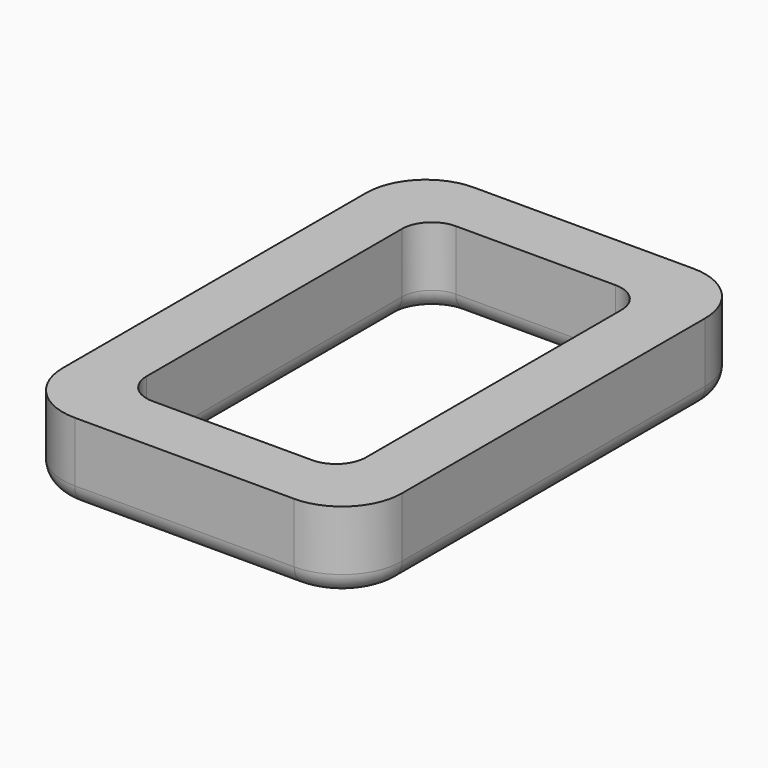
from build123d import *

# Parameters (mm, degrees)
F1_DEPTH = 20
F2_R     = 5


with BuildPart() as f1:
    # F0 (on Top) → F1 (new body)
    with BuildSketch(Plane.XY):
        with BuildLine():
            ThreePointArc((42.5, 47.5), (38.106602, 58.106602), (27.5, 62.5))
            Line((27.5, 62.5), (-27.5, 62.5))
            ThreePointArc((-27.5, 62.5), (-38.106602, 58.106602), (-42.5, 47.5))
            Line((-42.5, 47.5), (-42.5, -47.5))
            ThreePointArc((-42.5, -47.5), (-38.106602, -58.106602), (-27.5, -62.5))
            Line((-27.5, -62.5), (27.5, -62.5))
            ThreePointArc((27.5, -62.5), (38.106602, -58.106602), (42.5, -47.5))
            Line((42.5, -47.5), (42.5, 47.5))
        make_face()
        with BuildLine():
            Line((-20, 47.5), (20, 47.5))
            ThreePointArc((20, 47.5), (25.303301, 45.303301), (27.5, 40))
            Line((27.5, 40), (27.5, -40))
            ThreePointArc((27.5, -40), (25.303301, -45.303301), (20, -47.5))
            Line((20, -47.5), (-20, -47.5))
            ThreePointArc((-20, -47.5), (-25.303301, -45.303301), (-27.5, -40))
            Line((-27.5, -40), (-27.5, 40))
            ThreePointArc((-27.5, 40), (-25.303301, 45.303301), (-20, 47.5))
        make_face(mode=Mode.SUBTRACT)
    extrude(amount=F1_DEPTH)

    # F2
    f2_edges = [f1.edges().sort_by_distance(p)[0] for p in [
        (38.106602, 58.106602, 0),
        (0, 62.5, 0),
        (-38.106602, 58.106602, 0),
        (-42.5, 0, 0),
        (-38.106602, -58.106602, 0),
        (0, -62.5, 0),
        (38.106602, -58.106602, 0),
        (42.5, 0, 0),
        (-27.5, 0, 0),
        (-25.303301, 45.303301, 0),
        (0, 47.5, 0),
        (25.303301, 45.303301, 0),
        (27.5, 0, 0),
        (25.303301, -45.303301, 0),
        (0, -47.5, 0),
        (-25.303301, -45.303301, 0),
    ]]
    fillet(f2_edges, radius=F2_R)


solid = f1.part
